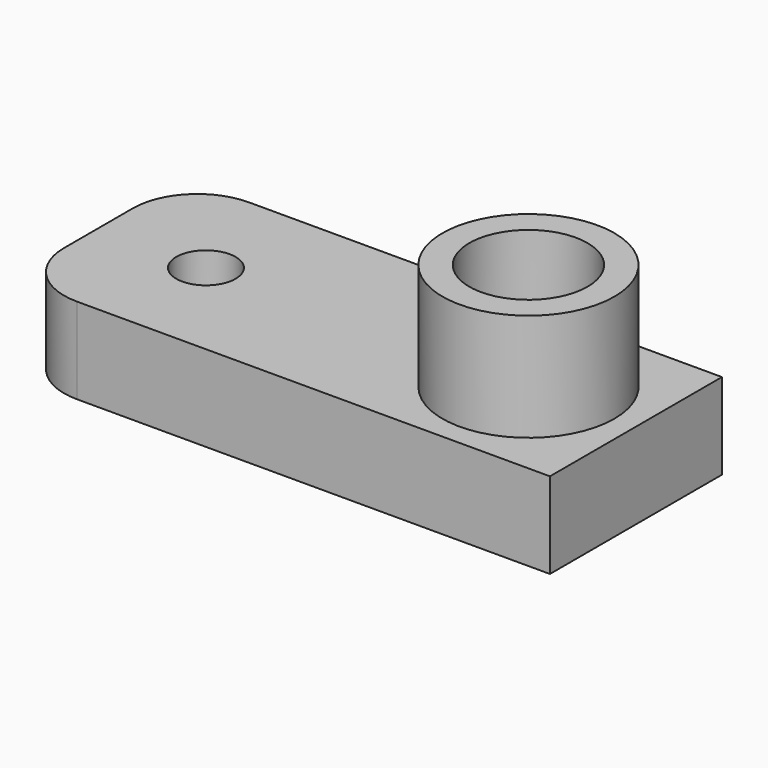
from build123d import *

# Parameters (mm, degrees)
CYLINDER085_R     = 2.75
CYLINDER085_DEPTH = 7
CYLINDER084_R     = 4
CYLINDER084_DEPTH = 9
CYLINDER073_R     = 1.38
CYLINDER073_DEPTH = 10
CYLINDER074_R     = 2.25
CYLINDER074_DEPTH = 10
BOX041_W          = 25
BOX041_H          = 10
BOX041_DEPTH      = 4
FILLET008_R       = 3


with BuildPart() as cilindro004:
    # Cylinder085 → Cylinder085 (new body)
    with BuildSketch(Plane(origin=(17, 17, 12), x_dir=(1, 0, 0), z_dir=(0, 0, 1))):
        Circle(CYLINDER085_R)
    extrude(amount=CYLINDER085_DEPTH)


with BuildPart() as obj1:
    # Cylinder084 → Cylinder084 (new body)
    with BuildSketch(Plane(origin=(17, 17, 10), x_dir=(1, 0, 0), z_dir=(0, 0, 1))):
        Circle(CYLINDER084_R)
    extrude(amount=CYLINDER084_DEPTH)

    # Cut055: cut Cilindro004
    add(cilindro004.part, mode=Mode.SUBTRACT)


with BuildPart() as obj1_1:
    # Cut055 placement: moved
    add(obj1.part.moved(Location((21, 102, 52))))


with BuildPart() as cylinder073:
    # Cylinder073 → Cylinder073 (new body)
    with BuildSketch(Plane(origin=(25, 52, 59), x_dir=(1, 0, 0), z_dir=(0, 0, 1))):
        Circle(CYLINDER073_R)
    extrude(amount=CYLINDER073_DEPTH)


with BuildPart() as cylinder074:
    # Cylinder074 → Cylinder074 (new body)
    with BuildSketch(Plane(origin=(40, 52, 59), x_dir=(1, 0, 0), z_dir=(0, 0, 1))):
        Circle(CYLINDER074_R)
    extrude(amount=CYLINDER074_DEPTH)


with BuildPart() as palanca_3_final:
    # Box041 → Box041 (new body)
    with BuildSketch(Plane(origin=(45, 57, 62), x_dir=(-1, 0, 0), z_dir=(0, 0, 1))):
        with Locations((12.5, 5)):
            Rectangle(BOX041_W, BOX041_H)
    extrude(amount=BOX041_DEPTH)

    # Cut044: cut Cylinder074
    add(cylinder074.part, mode=Mode.SUBTRACT)

    # Cut045: cut Cylinder073
    add(cylinder073.part, mode=Mode.SUBTRACT)

    # Fillet008
    fillet008_edges = [palanca_3_final.edges().sort_by_distance(p)[0] for p in [
        (20, 57, 64),
        (20, 47, 64),
    ]]
    fillet(fillet008_edges, radius=FILLET008_R)


with BuildPart() as palanca_3_final_1:
    # Fillet008 placement: moved
    add(palanca_3_final.part.moved(Location((-2, 67, 0))))

    # Fusion011: union obj1
    add(obj1_1.part)


solid = palanca_3_final_1.part
